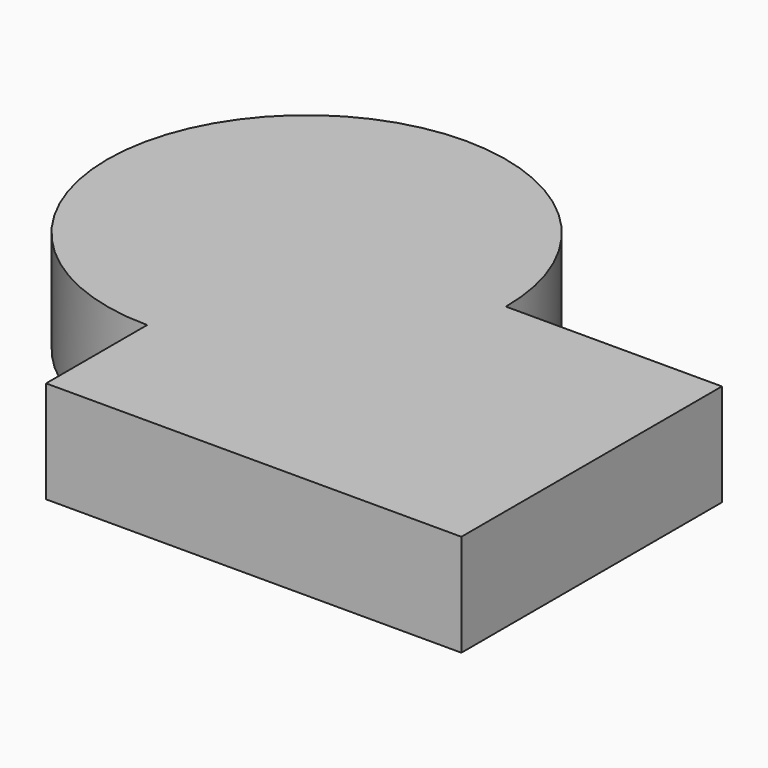
from build123d import *

# Parameters (mm, degrees)
F1_DEPTH = 67.31


with BuildPart() as f1:
    # F0 (on Top) → F1 (new body)
    with BuildSketch(Plane.XY):
        with BuildLine():
            Line((-156.0593098402, -104.9341335893), (117.7671849728, -104.9341335893))
            Line((117.7671849728, -104.9341335893), (117.7671849728, 109.7960919142))
            Line((117.7671849728, 109.7960919142), (-24.6576875478, 109.7960919142))
            ThreePointArc((-24.6576875478, 109.7960919142), (-63.1443316583, 16.8811137323), (-156.0593098402, -21.6055303782))
            Line((-156.0593098402, -21.6055303782), (-156.0593098402, -104.9341335893))
        make_face()
        with BuildLine():
            ThreePointArc((-24.6576875478, 109.7960919142), (-248.9742880221, 202.7110700961), (-156.0593098402, -21.6055303782))
            Line((-156.0593098402, -21.6055303782), (-156.0593098402, 109.7960919142))
            Line((-156.0593098402, 109.7960919142), (-24.6576875478, 109.7960919142))
        make_face()
        with BuildLine():
            Line((-156.0593098402, 109.7960919142), (-156.0593098402, -21.6055303782))
            ThreePointArc((-156.0593098402, -21.6055303782), (-63.1443316583, 16.8811137323), (-24.6576875478, 109.7960919142))
            Line((-24.6576875478, 109.7960919142), (-156.0593098402, 109.7960919142))
        make_face()
    extrude(amount=-F1_DEPTH)


solid = f1.part
